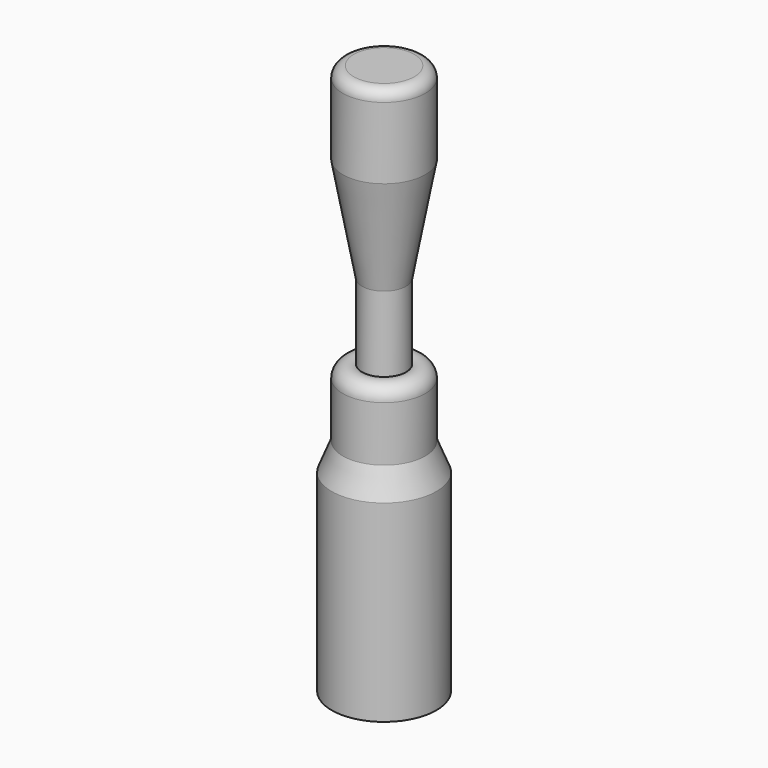
from build123d import *


with BuildPart() as f1:
    # F0 (on Front) → F1 (revolve)
    with BuildSketch(Plane.XZ):
        with BuildLine():
            Line((5.5, 0), (0, 0))
            Line((0, 0), (0, -100))
            Line((0, -100), (9.5, -100))
            Line((9.5, -100), (9.5, -65))
            Line((9.5, -65), (7.5, -60))
            Line((7.5, -60), (7.5, -50))
            ThreePointArc((7.5, -50), (6.369306, -47.90835), (4, -47.708712))
            Line((4, -47.708712), (4, -34))
            Line((4, -34), (7.5, -15))
            Line((7.5, -15), (7.5, -2))
            ThreePointArc((7.5, -2), (6.914214, -0.585786), (5.5, 0))
        make_face()
    revolve(axis=Axis((0, 0, -50), (0, 0, 1)))


solid = f1.part
